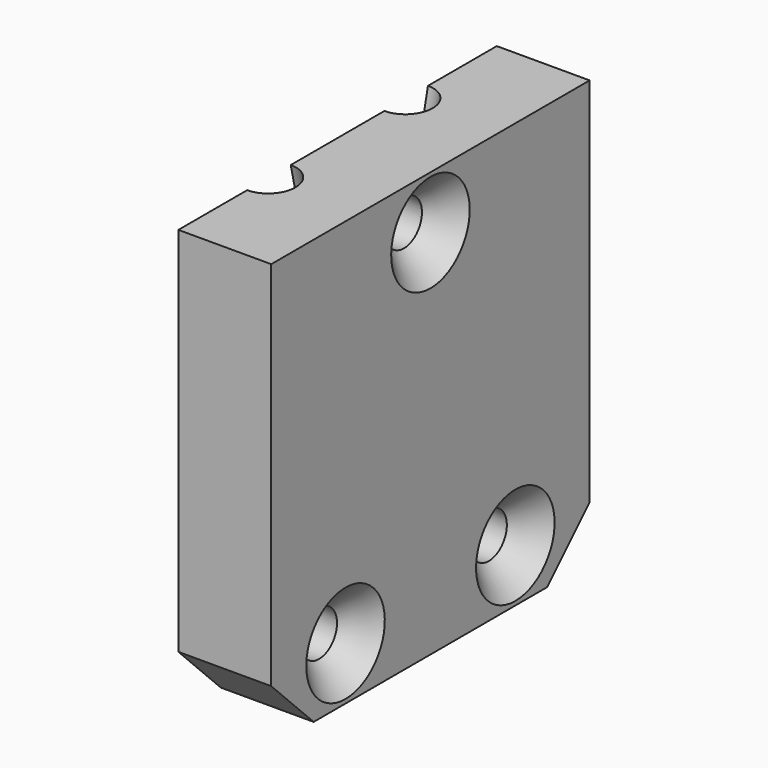
from build123d import *

# Parameters (mm, degrees)
BOX001027045148_W          = 4
BOX001027045148_H          = 3
BOX001027045148_DEPTH      = 20
BOX001027045148_ROLL_ANGLE = -29
BOX001027045147_W          = 4
BOX001027045147_H          = 3
BOX001027045147_DEPTH      = 20
BOX001027045147_ROLL_ANGLE = -29
CYLINDER203_R              = 1.7
CYLINDER203_DEPTH          = 30
CYLINDER203_PITCH_ANGLE    = 90
CYLINDER204_R              = 1.7
CYLINDER204_DEPTH          = 30
CYLINDER204_PITCH_ANGLE    = 90
CYLINDER202_R              = 1.7
CYLINDER202_DEPTH          = 30
CYLINDER202_PITCH_ANGLE    = 90
CYLINDER210_R              = 2
CYLINDER210_DEPTH          = 30
CYLINDER210_ROLL_ANGLE     = 13
CYLINDER209_R              = 2
CYLINDER209_DEPTH          = 30
CYLINDER209_ROLL_ANGLE     = -13
CYLINDER211_R              = 2
CYLINDER211_DEPTH          = 20
BOX001027045145_W          = 2.2
BOX001027045145_H          = 16
BOX001027045145_DEPTH      = 11
CHAMFER010_SIZE            = 7
CHAMFER011_SIZE            = 3
BOX001027045140_W          = 7
BOX001027045140_H          = 30
BOX001027045140_DEPTH      = 32
CHAMFER004_SIZE            = 4
CHAMFER012_SIZE            = 2


with BuildPart() as cube199:
    # Box001027045148 → Box001027045148 (new body)
    with BuildSketch(Plane.XY):
        with Locations((2, 1.5)):
            Rectangle(BOX001027045148_W, BOX001027045148_H)
    extrude(amount=BOX001027045148_DEPTH)


with BuildPart() as cube199_1:
    # Box001027045148 roll: moved
    add(cube199.part.rotate(Axis((0, 0, 0), (1, 0, 0)), BOX001027045148_ROLL_ANGLE))


with BuildPart() as cube199_2:
    # Box001027045148 placement: moved
    add(cube199_1.part.moved(Location((-2, 0, -2))))


with BuildPart() as part_mirroring002:
    # Part__Mirroring002: instance of Cube199
    add(cube199_2.part.mirror(Plane(origin=(0, 0, 0), x_dir=(1, 0, 0), z_dir=(0, 1, 0))))


with BuildPart() as split_holders001:
    # Box001027045147 → Box001027045147 (new body)
    with BuildSketch(Plane.XY):
        with Locations((2, 1.5)):
            Rectangle(BOX001027045147_W, BOX001027045147_H)
    extrude(amount=BOX001027045147_DEPTH)


with BuildPart() as split_holders001_1:
    # Box001027045147 roll: moved
    add(split_holders001.part.rotate(Axis((0, 0, 0), (1, 0, 0)), BOX001027045147_ROLL_ANGLE))


with BuildPart() as split_holders001_2:
    # Box001027045147 placement: moved
    add(split_holders001_1.part.moved(Location((-2, 0, -2))))

    # Fusion112099: union Part__Mirroring002
    add(part_mirroring002.part)


with BuildPart() as m3_clear_a:
    # Cylinder203 → Cylinder203 (new body)
    with BuildSketch(Plane.XY):
        Circle(CYLINDER203_R)
    extrude(amount=CYLINDER203_DEPTH)


with BuildPart() as m3_clear_a_1:
    # Cylinder203 pitch: moved
    add(m3_clear_a.part.rotate(Axis((0, 0, 0), (0, 1, 0)), CYLINDER203_PITCH_ANGLE))


with BuildPart() as m3_clear_a_2:
    # Cylinder203 placement: moved
    add(m3_clear_a_1.part.moved(Location((-15, 8, 0))))


with BuildPart() as m3_clear_b:
    # Cylinder204 → Cylinder204 (new body)
    with BuildSketch(Plane.XY):
        Circle(CYLINDER204_R)
    extrude(amount=CYLINDER204_DEPTH)


with BuildPart() as m3_clear_b_1:
    # Cylinder204 pitch: moved
    add(m3_clear_b.part.rotate(Axis((0, 0, 0), (0, 1, 0)), CYLINDER204_PITCH_ANGLE))


with BuildPart() as m3_clear_b_2:
    # Cylinder204 placement: moved
    add(m3_clear_b_1.part.moved(Location((-15, -8, 0))))


with BuildPart() as m3_clears:
    # Cylinder202 → Cylinder202 (new body)
    with BuildSketch(Plane.XY):
        Circle(CYLINDER202_R)
    extrude(amount=CYLINDER202_DEPTH)


with BuildPart() as m3_clears_1:
    # Cylinder202 pitch: moved
    add(m3_clears.part.rotate(Axis((0, 0, 0), (0, 1, 0)), CYLINDER202_PITCH_ANGLE))


with BuildPart() as m3_clears_2:
    # Cylinder202 placement: moved
    add(m3_clears_1.part.moved(Location((-15, 0, 24))))

    # Fusion112083: union M3-clear-a, M3-clear-b
    add(m3_clear_a_2.part)
    add(m3_clear_b_2.part)


with BuildPart() as cylinder210:
    # Cylinder210 → Cylinder210 (new body)
    with BuildSketch(Plane.XY):
        Circle(CYLINDER210_R)
    extrude(amount=CYLINDER210_DEPTH)


with BuildPart() as cylinder210_1:
    # Cylinder210 roll: moved
    add(cylinder210.part.rotate(Axis((0, 0, 0), (1, 0, 0)), CYLINDER210_ROLL_ANGLE))


with BuildPart() as cylinder210_2:
    # Cylinder210 placement: moved
    add(cylinder210_1.part.moved(Location((0, -2.249511, 9.743701))))


with BuildPart() as cylinder209:
    # Cylinder209 → Cylinder209 (new body)
    with BuildSketch(Plane.XY):
        Circle(CYLINDER209_R)
    extrude(amount=CYLINDER209_DEPTH)


with BuildPart() as cylinder209_1:
    # Cylinder209 roll: moved
    add(cylinder209.part.rotate(Axis((0, 0, 0), (1, 0, 0)), CYLINDER209_ROLL_ANGLE))


with BuildPart() as cylinder209_2:
    # Cylinder209 placement: moved
    add(cylinder209_1.part.moved(Location((0, 2.249511, 9.743701))))


with BuildPart() as cylinder243:
    # Cylinder211 → Cylinder211 (new body)
    with BuildSketch(Plane.XY.offset(-19)):
        Circle(CYLINDER211_R)
    extrude(amount=CYLINDER211_DEPTH)


with BuildPart() as y_top_m3:
    # Box001027045145 → Box001027045145 (new body)
    with BuildSketch(Plane(origin=(-1.1, -8, 0), x_dir=(1, 0, 0), z_dir=(0, 0, 1))):
        with Locations((1.1, 8)):
            Rectangle(BOX001027045145_W, BOX001027045145_H)
    extrude(amount=BOX001027045145_DEPTH)

    # Chamfer010
    chamfer010_edges = [y_top_m3.edges().sort_by_distance(p)[0] for p in [
        (0, -8, 0),
        (0, 8, 0),
    ]]
    chamfer(chamfer010_edges, length=CHAMFER010_SIZE)

    # Chamfer011
    chamfer011_edges = [y_top_m3.edges().sort_by_distance(p)[0] for p in [
        (0, -8, 7),
        (0, 8, 7),
    ]]
    chamfer(chamfer011_edges, length=CHAMFER011_SIZE)

    # Fusion112094: union Cylinder210, Cylinder209, Cylinder243
    add(cylinder210_2.part)
    add(cylinder209_2.part)
    add(cylinder243.part)

    # Fusion112100: union M3-clears
    add(m3_clears_2.part)


with BuildPart() as top:
    # Box001027045140 → Box001027045140 (new body)
    with BuildSketch(Plane(origin=(0, -15, -4), x_dir=(1, 0, 0), z_dir=(0, 0, 1))):
        with Locations((3.5, 15)):
            Rectangle(BOX001027045140_W, BOX001027045140_H)
    extrude(amount=BOX001027045140_DEPTH)

    # Chamfer004
    chamfer004_edges = [top.edges().sort_by_distance(p)[0] for p in [
        (3.5, -15, -4),
        (3.5, 15, -4),
    ]]
    chamfer(chamfer004_edges, length=CHAMFER004_SIZE)

    # Cut162: cut y-top-M3
    add(y_top_m3.part, mode=Mode.SUBTRACT)

    # Cut163: cut split-holders001
    add(split_holders001_2.part, mode=Mode.SUBTRACT)

    # Chamfer012
    chamfer012_edges = [top.edges().sort_by_distance(p)[0] for p in [
        (7, -8, 1.7),
        (7, 0, 25.7),
        (7, 8, 1.7),
    ]]
    chamfer(chamfer012_edges, length=CHAMFER012_SIZE)


with BuildPart() as top_1:
    # Chamfer012 placement: moved
    add(top.part.moved(Location((46, 0, 0))))


solid = top_1.part
